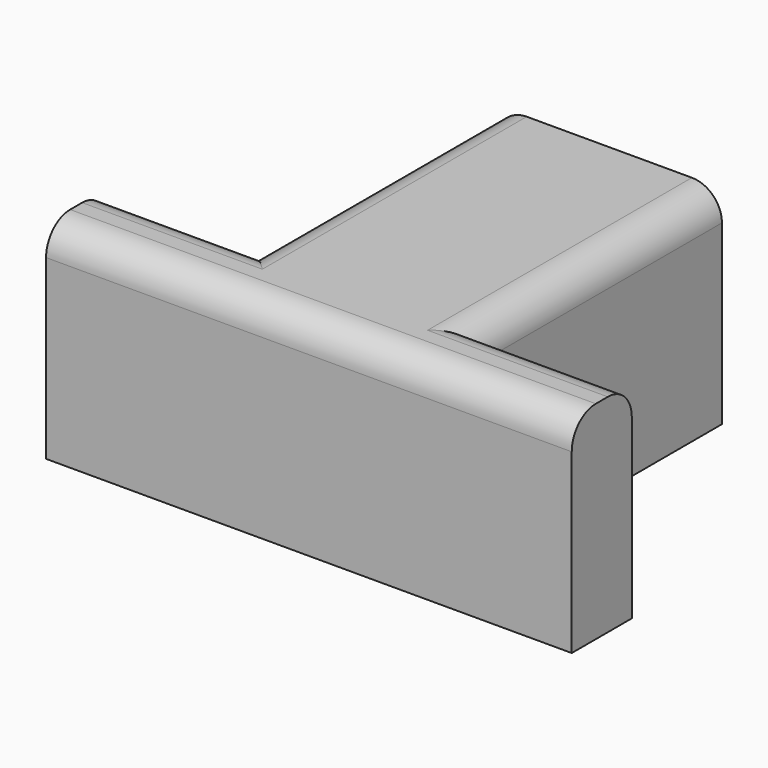
from build123d import *

# Parameters (mm, degrees)
F0_W     = 38.1
F0_H     = 50.8
F0_W_2   = 25.4
F0_H_2   = 12.7
F1_DEPTH = 35.052
F2_R     = 5.08


with BuildPart() as f1:
    # F0 (on Top) → F1 (new body)
    with BuildSketch(Plane.XY):
        with Locations((5.208455, 14.55895)):
            Rectangle(F0_W, F0_H)
        with Locations((-26.541545, -17.19105)):
            Rectangle(F0_W_2, F0_H_2)
        with Locations((5.208455, -17.19105)):
            Rectangle(F0_W, F0_H_2)
        with Locations((36.958455, -17.19105)):
            Rectangle(F0_W_2, F0_H_2)
        with Locations((5.208455, 14.55895)):
            Rectangle(F0_W, F0_H)
    extrude(amount=F1_DEPTH)

    # F2
    f2_edges = [f1.edges().sort_by_distance(p)[0] for p in [
        (24.258455, 14.55895, 35.052),
        (-13.841545, 14.55895, 35.052),
        (-26.541545, -10.84105, 35.052),
        (36.958455, -10.84105, 35.052),
        (5.208455, -23.54105, 35.052),
    ]]
    fillet(f2_edges, radius=F2_R)


solid = f1.part
